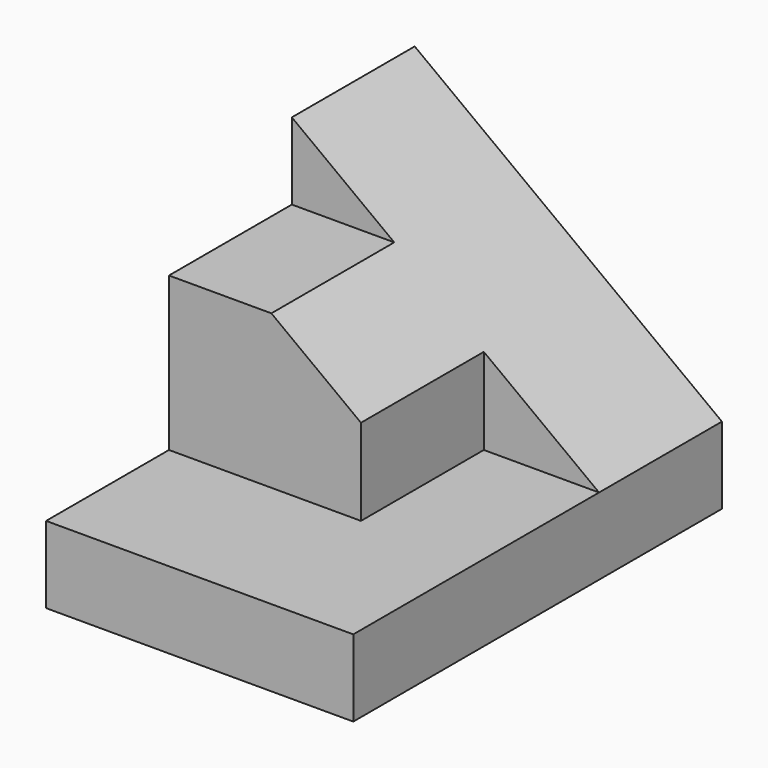
from build123d import *

# Parameters (mm, degrees)
F0_W           = 25.4
F0_H           = 25.4
F1_DEPTH       = 19.05
F3_DEPTH       = 19.051
F3_DEPTH_BACK  = 25.4
F5_DEPTH       = 25.4
F5_DEPTH_BACK  = 6.35
F6_W           = 12.7
F6_H           = 12.7
F7_DEPTH       = 25.401
F8_W           = 6.35
F8_H           = 6.35
F9_DEPTH       = 4.7625
F11_DEPTH      = 25.4
F11_DEPTH_BACK = 6.35


with BuildPart() as f1:
    # F0 (on Front) → F1 (new body, symmetric)
    with BuildSketch(Plane.XZ):
        with Locations((-12.7, 12.7)):
            Rectangle(F0_W, F0_H)
    extrude(amount=F1_DEPTH, both=True)

    # F2 (on Front) → F3 (cut, two sides)
    with BuildSketch(Plane.XZ) as f3_sk:
        Polygon((-25.4, 25.4), (0, 6.35), (0, 25.4), align=None)
    extrude(amount=-F3_DEPTH, mode=Mode.SUBTRACT)
    extrude(f3_sk.sketch, amount=F3_DEPTH_BACK, mode=Mode.SUBTRACT)

    # F4 (on Front) → F5 (cut, two sides)
    with BuildSketch(Plane.XZ) as f5_sk:
        Polygon((-25.4, 25.4), (-25.4, 19.05), (-16.9333333333, 19.05), align=None)
    extrude(amount=F5_DEPTH, mode=Mode.SUBTRACT)
    extrude(f5_sk.sketch, amount=-F5_DEPTH_BACK, mode=Mode.SUBTRACT)

    # F6 (on Right) → F7 (cut, through all)
    with BuildSketch(Plane.YZ):
        with Locations((-12.7, 12.7)):
            Rectangle(F6_W, F6_H)
    extrude(amount=-F7_DEPTH, mode=Mode.SUBTRACT)

    # F8 (on Right) → F9 (cut, symmetric)
    with BuildSketch(Plane.YZ):
        with Locations((3.175, 9.525)):
            Rectangle(F8_W, F8_H)
    extrude(amount=F9_DEPTH, both=True, mode=Mode.SUBTRACT)

    # F10 (on Front) → F11 (cut, two sides)
    with BuildSketch(Plane.XZ) as f11_sk:
        Polygon((0, 6.35), (-9.525, 13.49375), (-9.525, 6.35), align=None)
    extrude(amount=F11_DEPTH, mode=Mode.SUBTRACT)
    extrude(f11_sk.sketch, amount=-F11_DEPTH_BACK, mode=Mode.SUBTRACT)


solid = f1.part
